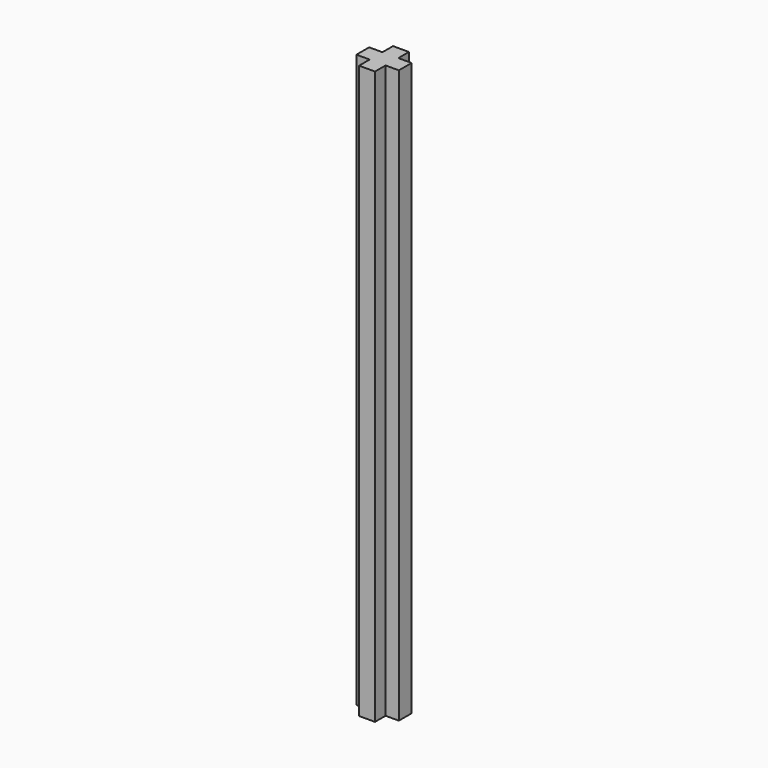
from build123d import *

# Parameters (mm, degrees)
F1_DEPTH = 53.975


with BuildPart() as f1:
    # F0 (on Top) → F1 (new body)
    with BuildSketch(Plane.XY):
        Polygon((0.75, 2), (0, 2), (-0.75, 2), (-0.75, 0.75), (-2, 0.75), (-2, 0), (-2, -0.75), (-0.75, -0.75), (-0.75, -2), (0, -2), (0.75, -2), (0.75, -0.75), (2, -0.75), (2, 0), (2, 0.75), (0.75, 0.75), align=None)
    extrude(amount=F1_DEPTH)


solid = f1.part
